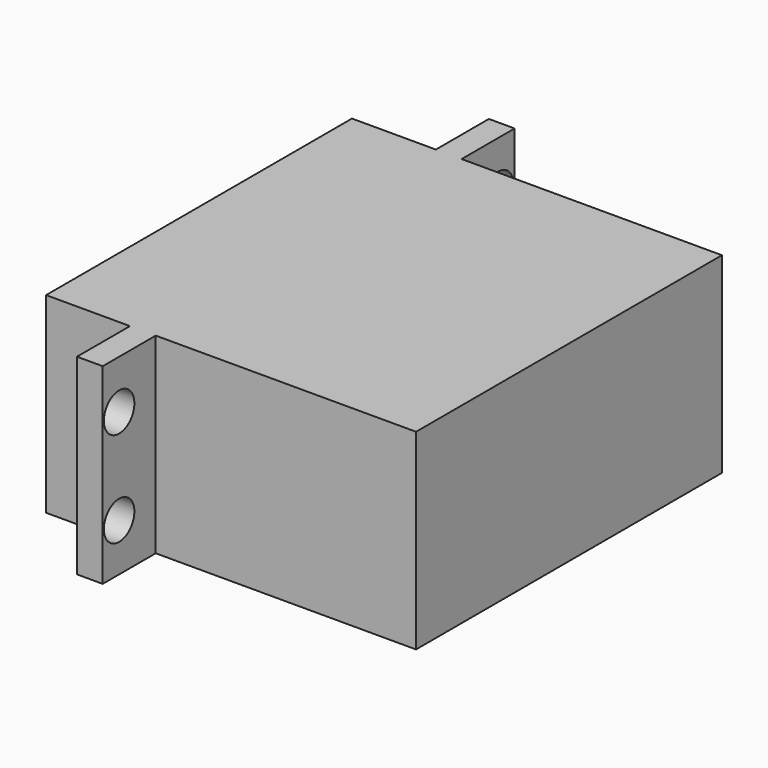
from build123d import *

# Parameters (mm, degrees)
CYLINDER174_R     = 2
CYLINDER174_DEPTH = 20
CYLINDER173_R     = 2
CYLINDER173_DEPTH = 20
CYLINDER171_R     = 2
CYLINDER171_DEPTH = 20
CYLINDER172_R     = 2
CYLINDER172_DEPTH = 20
BOX075_W          = 38.8
BOX075_H          = 40.1
BOX075_DEPTH      = 20.1
BOX223_W          = 2.7
BOX223_H          = 54
BOX223_DEPTH      = 20.1


with BuildPart() as cylinder174:
    # Cylinder174 → Cylinder174 (new body)
    with BuildSketch(Plane(origin=(-97.2, 2.2, 5), x_dir=(0, 0, -1), z_dir=(1, 0, 0))):
        Circle(CYLINDER174_R)
    extrude(amount=CYLINDER174_DEPTH)


with BuildPart() as cylinder173:
    # Cylinder173 → Cylinder173 (new body)
    with BuildSketch(Plane(origin=(-97.2, 2.2, 15), x_dir=(0, 0, -1), z_dir=(1, 0, 0))):
        Circle(CYLINDER173_R)
    extrude(amount=CYLINDER173_DEPTH)


with BuildPart() as cylinder171:
    # Cylinder171 → Cylinder171 (new body)
    with BuildSketch(Plane(origin=(-97.2, 51.9, 5), x_dir=(0, 0, -1), z_dir=(1, 0, 0))):
        Circle(CYLINDER171_R)
    extrude(amount=CYLINDER171_DEPTH)


with BuildPart() as cylinder172:
    # Cylinder172 → Cylinder172 (new body)
    with BuildSketch(Plane(origin=(-97.2, 51.9, 15), x_dir=(0, 0, -1), z_dir=(1, 0, 0))):
        Circle(CYLINDER172_R)
    extrude(amount=CYLINDER172_DEPTH)


with BuildPart() as box075:
    # Box075 → Box075 (new body)
    with BuildSketch(Plane(origin=(82, -93, 0), x_dir=(1, 0, 0), z_dir=(0, 0, 1))):
        with Locations((19.4, 20.05)):
            Rectangle(BOX075_W, BOX075_H)
    extrude(amount=BOX075_DEPTH)


with BuildPart() as cut127:
    # Box223 → Box223 (new body)
    with BuildSketch(Plane(origin=(90.8, -99.95, 0), x_dir=(1, 0, 0), z_dir=(0, 0, 1))):
        with Locations((1.35, 27)):
            Rectangle(BOX223_W, BOX223_H)
    extrude(amount=BOX223_DEPTH)

    # Fusion085: union Box075
    add(box075.part)


with BuildPart() as cut127_1:
    # Fusion085 placement: moved
    add(cut127.part.moved(Location((-188, 100, 0))))

    # Cut124: cut Cylinder172
    add(cylinder172.part, mode=Mode.SUBTRACT)

    # Cut125: cut Cylinder171
    add(cylinder171.part, mode=Mode.SUBTRACT)

    # Cut126: cut Cylinder173
    add(cylinder173.part, mode=Mode.SUBTRACT)

    # Cut127: cut Cylinder174
    add(cylinder174.part, mode=Mode.SUBTRACT)


with BuildPart() as cut127_2:
    # Cut127 placement: moved
    add(cut127_1.part.moved(Location((4, -10, 0))))


solid = cut127_2.part
